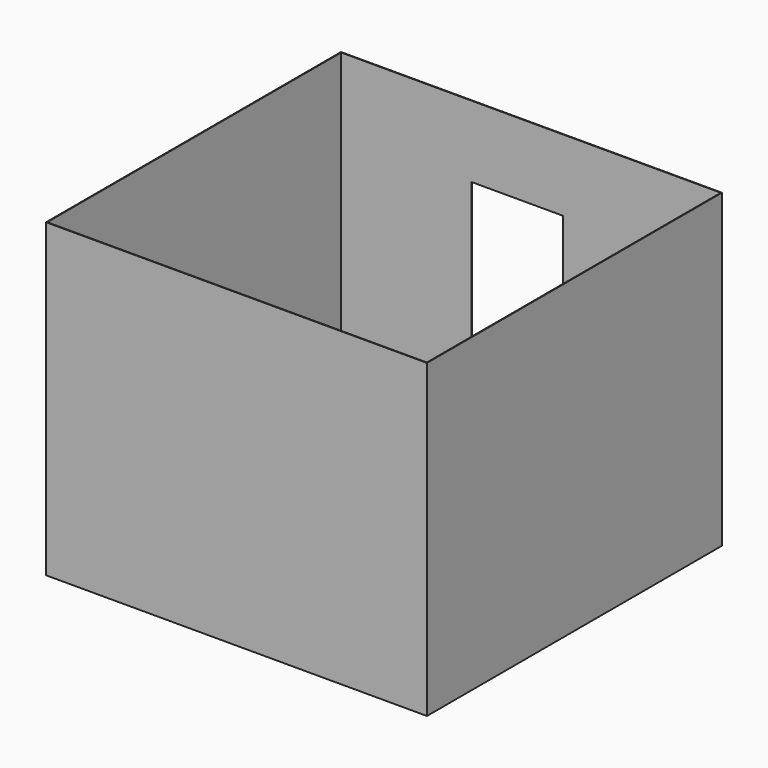
from build123d import *

# Parameters (mm, degrees)
SKETCH_W     = 3175
SKETCH_H     = 3073.4
SKETCH_W_2   = 3165
SKETCH_H_2   = 3063.4
PAD_DEPTH    = 2590.8
SKETCH001_W  = 762
SKETCH001_H  = 1993.9
POCKET_DEPTH = 107.95
SKETCH002_W  = 3165
SKETCH002_H  = 3063.4
PAD001_DEPTH = 9.525


with BuildPart() as part:
    # Sketch → Pad (new body)
    with BuildSketch(Plane.XY):
        with Locations((-1587.5, -1536.7)):
            Rectangle(SKETCH_W, SKETCH_H)
        with Locations((-1587.5, -1536.7)):
            Rectangle(SKETCH_W_2, SKETCH_H_2, mode=Mode.SUBTRACT)
    extrude(amount=PAD_DEPTH)

    # Sketch001 (on Face1 of Pad) → Pocket (cut)
    with BuildSketch(Plane(origin=(0, 0, 0), x_dir=(-1, 0, 0), z_dir=(0, 1, 0))):
        with Locations((1701.8, 996.95)):
            Rectangle(SKETCH001_W, SKETCH001_H)
    extrude(amount=-POCKET_DEPTH, mode=Mode.SUBTRACT)

    # Sketch002 (on Face2 of Pocket) → Pad001 (join)
    with BuildSketch(Plane(origin=(0, 0, 0), x_dir=(1, 0, 0), z_dir=(0, 0, -1))):
        with Locations((-1587.5, 1536.7)):
            Rectangle(SKETCH002_W, SKETCH002_H)
    extrude(amount=-PAD001_DEPTH)


solid = part.part
